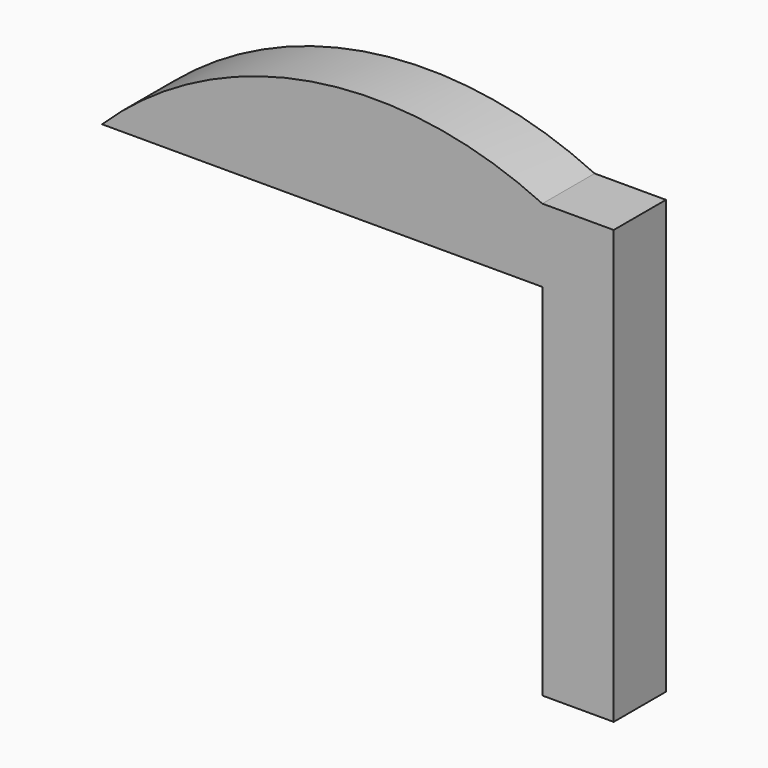
from build123d import *

# Parameters (mm, degrees)
F1_DEPTH = 12.7


with BuildPart() as f1:
    # F0 (on Front) → F1 (new body, symmetric)
    with BuildSketch(Plane.XZ):
        with BuildLine():
            Line((-171.189904, 0), (0, 0))
            Line((0, 0), (0, 28.50312))
            ThreePointArc((0, 28.50312), (-90.057212, 41.051919), (-171.189904, 0))
        make_face()
        Polygon((0, 28.50312), (0, 0), (0, -139.86215), (27.732762, -139.86215), (27.732762, 28.50312), align=None)
    extrude(amount=F1_DEPTH, both=True)


solid = f1.part
